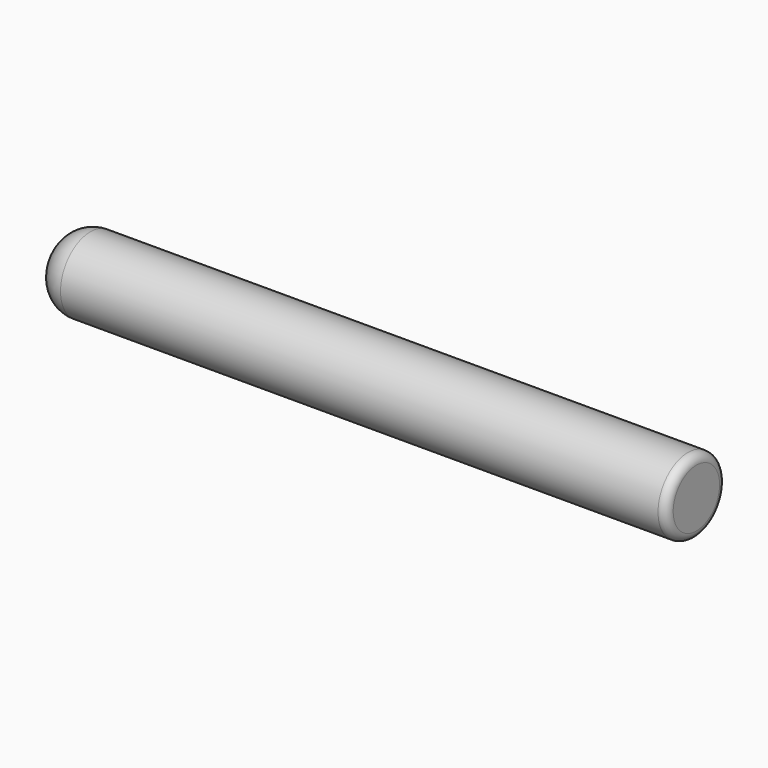
from build123d import *

# Parameters (mm, degrees)
F0_R     = 7620
F1_DEPTH = 64770
F2_R     = 6132.102448
F3_R     = 1716.988686


with BuildPart() as f1:
    # F0 (on Right) → F1 (new body, symmetric)
    with BuildSketch(Plane.YZ):
        Circle(F0_R)
    extrude(amount=F1_DEPTH, both=True)

    # F2
    f2_edges = [f1.edges().sort_by_distance(p)[0] for p in [
        (-64770, -7620, 0),
    ]]
    fillet(f2_edges, radius=F2_R)

    # F3
    f3_edges = [f1.edges().sort_by_distance(p)[0] for p in [
        (64770, -7620, 0),
    ]]
    fillet(f3_edges, radius=F3_R)


solid = f1.part
